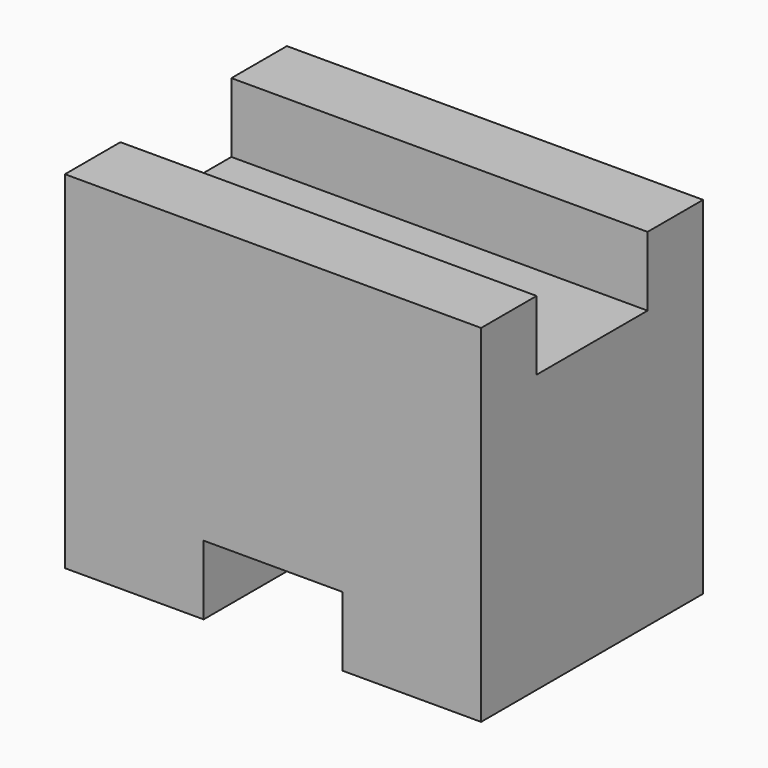
from build123d import *

# Parameters (mm, degrees)
F0_W     = 25.4
F0_H     = 31.75
F1_DEPTH = 38.1
F2_W     = 12.7
F2_H     = 6.35
F3_DEPTH = 38.1
F4_W     = 12.7
F4_H     = 6.35
F5_DEPTH = 25.4


with BuildPart() as f1:
    # F0 (on Right) → F1 (new body)
    with BuildSketch(Plane.YZ):
        with Locations((15.025874, 15.875)):
            Rectangle(F0_W, F0_H)
    extrude(amount=F1_DEPTH)

    # F2 (on face) → F3 (cut)
    with BuildSketch(Plane.YZ.offset(38.1)):
        with Locations((15.025874, 28.575)):
            Rectangle(F2_W, F2_H)
    extrude(amount=-F3_DEPTH, mode=Mode.SUBTRACT)

    # F4 (on face) → F5 (cut)
    with BuildSketch(Plane.XZ.offset(-2.325874)):
        with Locations((19.05, 3.175)):
            Rectangle(F4_W, F4_H)
    extrude(amount=-F5_DEPTH, mode=Mode.SUBTRACT)


solid = f1.part
